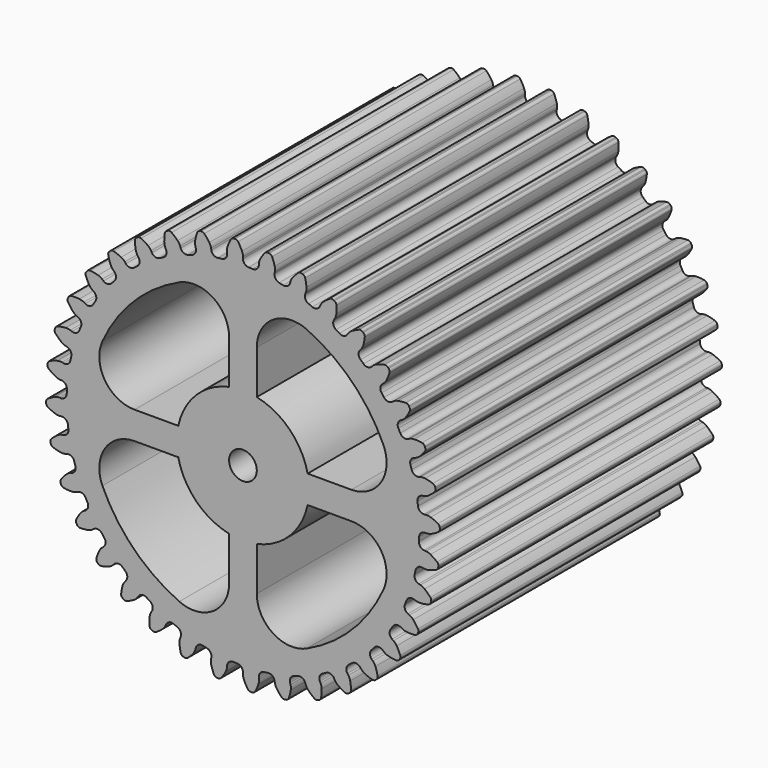
from build123d import *

# Parameters (mm, degrees)
F1_DEPTH = 50.8
F2_R     = 0.8382
F4_D     = 3.9878
F4_DEPTH = 50.8
F3_R     = 1.9939
F5_DEPTH = 50.8


with BuildPart() as f1:
    # F0 (on Front) → F1 (new body)
    with BuildSketch(Plane.XZ):
        with BuildLine():
            ThreePointArc((25.303345, -2.213756), (25.375825, -1.107932), (25.4, 0))
            ThreePointArc((25.4, 0), (25.375825, 1.107932), (25.303345, 2.213756))
            ThreePointArc((25.303345, 2.213756), (25.182699, 3.315365), (25.014117, 4.410664))
            ThreePointArc((25.014117, 4.410664), (24.797919, 5.497566), (24.534516, 6.574004))
            ThreePointArc((24.534516, 6.574004), (24.224411, 7.637927), (23.868193, 8.687312))
            ThreePointArc((23.868193, 8.687312), (23.46654, 9.720159), (23.020218, 10.734504))
            ThreePointArc((23.020218, 10.734504), (22.530075, 11.728415), (21.997045, 12.7))
            ThreePointArc((21.997045, 12.7), (21.422143, 13.64741), (20.806462, 14.568841))
            ThreePointArc((20.806462, 14.568841), (20.151175, 15.46254), (19.457529, 16.326805))
            ThreePointArc((19.457529, 16.326805), (18.726844, 17.159991), (17.960512, 17.960512))
            ThreePointArc((17.960512, 17.960512), (17.159991, 18.726844), (16.326805, 19.457529))
            ThreePointArc((16.326805, 19.457529), (15.46254, 20.151175), (14.568841, 20.806462))
            ThreePointArc((14.568841, 20.806462), (13.64741, 21.422143), (12.7, 21.997045))
            ThreePointArc((12.7, 21.997045), (11.728415, 22.530075), (10.734504, 23.020218))
            ThreePointArc((10.734504, 23.020218), (9.720159, 23.46654), (8.687312, 23.868193))
            ThreePointArc((8.687312, 23.868193), (7.637927, 24.224411), (6.574004, 24.534516))
            ThreePointArc((6.574004, 24.534516), (5.497566, 24.797919), (4.410664, 25.014117))
            ThreePointArc((4.410664, 25.014117), (3.315365, 25.182699), (2.213756, 25.303345))
            ThreePointArc((2.213756, 25.303345), (1.107932, 25.375825), (0, 25.4))
            ThreePointArc((0, 25.4), (-1.107932, 25.375825), (-2.213756, 25.303345))
            ThreePointArc((-2.213756, 25.303345), (-3.315365, 25.182699), (-4.410664, 25.014117))
            ThreePointArc((-4.410664, 25.014117), (-5.497566, 24.797919), (-6.574004, 24.534516))
            ThreePointArc((-6.574004, 24.534516), (-7.637927, 24.224411), (-8.687312, 23.868193))
            ThreePointArc((-8.687312, 23.868193), (-9.720159, 23.46654), (-10.734504, 23.020218))
            ThreePointArc((-10.734504, 23.020218), (-11.728415, 22.530075), (-12.7, 21.997045))
            ThreePointArc((-12.7, 21.997045), (-13.64741, 21.422143), (-14.568841, 20.806462))
            ThreePointArc((-14.568841, 20.806462), (-15.46254, 20.151175), (-16.326805, 19.457529))
            ThreePointArc((-16.326805, 19.457529), (-17.159991, 18.726844), (-17.960512, 17.960512))
            ThreePointArc((-17.960512, 17.960512), (-18.726844, 17.159991), (-19.457529, 16.326805))
            ThreePointArc((-19.457529, 16.326805), (-20.151175, 15.46254), (-20.806462, 14.568841))
            ThreePointArc((-20.806462, 14.568841), (-21.422143, 13.64741), (-21.997045, 12.7))
            ThreePointArc((-21.997045, 12.7), (-22.530075, 11.728415), (-23.020218, 10.734504))
            ThreePointArc((-23.020218, 10.734504), (-23.46654, 9.720159), (-23.868193, 8.687312))
            ThreePointArc((-23.868193, 8.687312), (-24.224411, 7.637927), (-24.534516, 6.574004))
            ThreePointArc((-24.534516, 6.574004), (-24.797919, 5.497566), (-25.014117, 4.410664))
            ThreePointArc((-25.014117, 4.410664), (-25.182699, 3.315365), (-25.303345, 2.213756))
            ThreePointArc((-25.303345, 2.213756), (-25.375825, 1.107932), (-25.4, 0))
            ThreePointArc((-25.4, 0), (-25.375825, -1.107932), (-25.303345, -2.213756))
            ThreePointArc((-25.303345, -2.213756), (-25.182699, -3.315365), (-25.014117, -4.410664))
            ThreePointArc((-25.014117, -4.410664), (-24.797919, -5.497566), (-24.534516, -6.574004))
            ThreePointArc((-24.534516, -6.574004), (-24.224411, -7.637927), (-23.868193, -8.687312))
            ThreePointArc((-23.868193, -8.687312), (-23.46654, -9.720159), (-23.020218, -10.734504))
            ThreePointArc((-23.020218, -10.734504), (-22.530075, -11.728415), (-21.997045, -12.7))
            ThreePointArc((-21.997045, -12.7), (-21.422143, -13.64741), (-20.806462, -14.568841))
            ThreePointArc((-20.806462, -14.568841), (-20.151175, -15.46254), (-19.457529, -16.326805))
            ThreePointArc((-19.457529, -16.326805), (-18.726844, -17.159991), (-17.960512, -17.960512))
            ThreePointArc((-17.960512, -17.960512), (-17.159991, -18.726844), (-16.326805, -19.457529))
            ThreePointArc((-16.326805, -19.457529), (-15.46254, -20.151175), (-14.568841, -20.806462))
            ThreePointArc((-14.568841, -20.806462), (-13.64741, -21.422143), (-12.7, -21.997045))
            ThreePointArc((-12.7, -21.997045), (-11.728415, -22.530075), (-10.734504, -23.020218))
            ThreePointArc((-10.734504, -23.020218), (-9.720159, -23.46654), (-8.687312, -23.868193))
            ThreePointArc((-8.687312, -23.868193), (-7.637927, -24.224411), (-6.574004, -24.534516))
            ThreePointArc((-6.574004, -24.534516), (-5.497566, -24.797919), (-4.410664, -25.014117))
            ThreePointArc((-4.410664, -25.014117), (-3.315365, -25.182699), (-2.213756, -25.303345))
            ThreePointArc((-2.213756, -25.303345), (-1.107932, -25.375825), (0, -25.4))
            ThreePointArc((0, -25.4), (1.107932, -25.375825), (2.213756, -25.303345))
            ThreePointArc((2.213756, -25.303345), (3.315365, -25.182699), (4.410664, -25.014117))
            ThreePointArc((4.410664, -25.014117), (5.497566, -24.797919), (6.574004, -24.534516))
            ThreePointArc((6.574004, -24.534516), (7.637927, -24.224411), (8.687312, -23.868193))
            ThreePointArc((8.687312, -23.868193), (9.720159, -23.46654), (10.734504, -23.020218))
            ThreePointArc((10.734504, -23.020218), (11.728415, -22.530075), (12.7, -21.997045))
            ThreePointArc((12.7, -21.997045), (13.64741, -21.422143), (14.568841, -20.806462))
            ThreePointArc((14.568841, -20.806462), (15.46254, -20.151175), (16.326805, -19.457529))
            ThreePointArc((16.326805, -19.457529), (17.159991, -18.726844), (17.960512, -17.960512))
            ThreePointArc((17.960512, -17.960512), (18.726844, -17.159991), (19.457529, -16.326805))
            ThreePointArc((19.457529, -16.326805), (20.151175, -15.46254), (20.806462, -14.568841))
            ThreePointArc((20.806462, -14.568841), (21.422143, -13.64741), (21.997045, -12.7))
            ThreePointArc((21.997045, -12.7), (22.530075, -11.728415), (23.020218, -10.734504))
            ThreePointArc((23.020218, -10.734504), (23.46654, -9.720159), (23.868193, -8.687312))
            ThreePointArc((23.868193, -8.687312), (24.224411, -7.637927), (24.534516, -6.574004))
            ThreePointArc((24.534516, -6.574004), (24.797919, -5.497566), (25.014117, -4.410664))
            ThreePointArc((25.014117, -4.410664), (25.182699, -3.315365), (25.303345, -2.213756))
        make_face()
        with BuildLine():
            ThreePointArc((25.303345, 2.213756), (25.375825, 1.107932), (25.4, 0))
            Line((25.4, 0), (26.478854, 0))
            ThreePointArc((26.478854, 0), (26.813675, 0.03542), (27.133674, 0.140114))
            ThreePointArc((27.133674, 0.140114), (27.648597, 0.398183), (28.13945, 0.699528))
            ThreePointArc((28.13945, 0.699528), (28.307437, 0.889026), (28.363069, 1.136077))
            Line((28.363069, 1.136077), (28.35996, 1.238223))
            Line((28.35996, 1.238223), (28.354154, 1.34025))
            ThreePointArc((28.354154, 1.34025), (28.277203, 1.581513), (28.093339, 1.755649))
            ThreePointArc((28.093339, 1.755649), (27.57809, 2.013067), (27.042633, 2.225275))
            ThreePointArc((27.042633, 2.225275), (26.714728, 2.30168), (26.378094, 2.307784))
            Line((26.378094, 2.307784), (25.303345, 2.213756))
        make_face()
        with BuildLine():
            Line((26.378094, -2.307784), (25.303345, -2.213756))
            ThreePointArc((25.303345, -2.213756), (25.182699, -3.315365), (25.014117, -4.410664))
            Line((25.014117, -4.410664), (26.076581, -4.598005))
            ThreePointArc((26.076581, -4.598005), (26.412466, -4.621263), (26.745783, -4.573728))
            ThreePointArc((26.745783, -4.573728), (27.297696, -4.408995), (27.83342, -4.197464))
            ThreePointArc((27.83342, -4.197464), (28.031761, -4.040015), (28.129448, -3.806378))
            Line((28.129448, -3.806378), (28.144124, -3.705244))
            Line((28.144124, -3.705244), (28.156123, -3.603758))
            ThreePointArc((28.156123, -3.603758), (28.122235, -3.352799), (27.971403, -3.14938))
            ThreePointArc((27.971403, -3.14938), (27.508682, -2.806401), (27.01821, -2.504436))
            ThreePointArc((27.01821, -2.504436), (26.708554, -2.372251), (26.378094, -2.307784))
        make_face()
        with BuildLine():
            ThreePointArc((24.534516, 6.574004), (24.797919, 5.497566), (25.014117, 4.410664))
            Line((25.014117, 4.410664), (26.076581, 4.598005))
            ThreePointArc((26.076581, 4.598005), (26.400164, 4.691028), (26.697122, 4.849698))
            ThreePointArc((26.697122, 4.849698), (27.159409, 5.193262), (27.590477, 5.575264))
            ThreePointArc((27.590477, 5.575264), (27.723006, 5.791054), (27.734892, 6.044013))
            Line((27.734892, 6.044013), (27.714094, 6.144067))
            Line((27.714094, 6.144067), (27.690659, 6.243536))
            ThreePointArc((27.690659, 6.243536), (27.572982, 6.467771), (27.361673, 6.607334))
            ThreePointArc((27.361673, 6.607334), (26.809551, 6.771369), (26.24538, 6.887372))
            ThreePointArc((26.24538, 6.887372), (25.909189, 6.905676), (25.576609, 6.853232))
            Line((25.576609, 6.853232), (24.534516, 6.574004))
        make_face()
        with BuildLine():
            Line((25.576609, -6.853232), (24.534516, -6.574004))
            ThreePointArc((24.534516, -6.574004), (24.224411, -7.637927), (23.868193, -8.687312))
            Line((23.868193, -8.687312), (24.881984, -9.056301))
            ThreePointArc((24.881984, -9.056301), (25.208727, -9.137533), (25.545235, -9.148599))
            ThreePointArc((25.545235, -9.148599), (26.117369, -9.082208), (26.681686, -8.966918))
            ThreePointArc((26.681686, -8.966918), (26.904355, -8.846303), (27.041128, -8.633177))
            Line((27.041128, -8.633177), (27.073143, -8.536129))
            Line((27.073143, -8.536129), (27.102582, -8.438269))
            ThreePointArc((27.102582, -8.438269), (27.112788, -8.185237), (26.999571, -7.958717))
            ThreePointArc((26.999571, -7.958717), (26.603437, -7.540598), (26.172852, -7.158051))
            ThreePointArc((26.172852, -7.158051), (25.890854, -6.974103), (25.576609, -6.853232))
        make_face()
        with BuildLine():
            ThreePointArc((23.020218, 10.734504), (23.46654, 9.720159), (23.868193, 8.687312))
            Line((23.868193, 8.687312), (24.881984, 9.056301))
            ThreePointArc((24.881984, 9.056301), (25.184498, 9.204101), (25.449391, 9.411927))
            ThreePointArc((25.449391, 9.411927), (25.844996, 9.830546), (26.203181, 10.2816))
            ThreePointArc((26.203181, 10.2816), (26.296225, 10.517125), (26.264005, 10.768304))
            Line((26.264005, 10.768304), (26.226149, 10.863226))
            Line((26.226149, 10.863226), (26.185797, 10.957115))
            ThreePointArc((26.185797, 10.957115), (26.030969, 11.157509), (25.798636, 11.258258))
            ThreePointArc((25.798636, 11.258258), (25.226418, 11.323926), (24.650674, 11.3402))
            ThreePointArc((24.650674, 11.3402), (24.316412, 11.299847), (23.997992, 11.190447))
            Line((23.997992, 11.190447), (23.020218, 10.734504))
        make_face()
        with BuildLine():
            Line((23.997992, -11.190447), (23.020218, -10.734504))
            ThreePointArc((23.020218, -10.734504), (22.530075, -11.728415), (21.997045, -12.7))
            Line((21.997045, -12.7), (22.93136, -13.239427))
            ThreePointArc((22.93136, -13.239427), (23.239034, -13.376163), (23.568507, -13.445495))
            ThreePointArc((23.568507, -13.445495), (24.143479, -13.479462), (24.719242, -13.463916))
            ThreePointArc((24.719242, -13.463916), (24.959473, -13.3838), (25.131177, -13.197663))
            Line((25.131177, -13.197663), (25.179558, -13.107648))
            Line((25.179558, -13.107648), (25.225543, -13.016386))
            ThreePointArc((25.225543, -13.016386), (25.279532, -12.768971), (25.20737, -12.526233))
            ThreePointArc((25.20737, -12.526233), (24.889859, -12.045678), (24.532245, -11.594172))
            ThreePointArc((24.532245, -11.594172), (24.286473, -11.364051), (23.997992, -11.190447))
        make_face()
        with BuildLine():
            ThreePointArc((20.806462, 14.568841), (21.422143, 13.64741), (21.997045, 12.7))
            Line((21.997045, 12.7), (22.93136, 13.239427))
            ThreePointArc((22.93136, 13.239427), (23.203614, 13.437513), (23.428394, 13.688179))
            ThreePointArc((23.428394, 13.688179), (23.745296, 14.169135), (24.019715, 14.675534))
            ThreePointArc((24.019715, 14.675534), (24.070447, 14.923638), (23.995099, 15.165406))
            Line((23.995099, 15.165406), (23.941335, 15.252312))
            Line((23.941335, 15.252312), (23.885293, 15.337768))
            ThreePointArc((23.885293, 15.337768), (23.698019, 15.508232), (23.451721, 15.567106))
            ThreePointArc((23.451721, 15.567106), (22.876793, 15.532412), (22.30697, 15.448461))
            ThreePointArc((22.30697, 15.448461), (21.984793, 15.350677), (21.690208, 15.187647))
            Line((21.690208, 15.187647), (20.806462, 14.568841))
        make_face()
        with BuildLine():
            Line((21.690208, -15.187647), (20.806462, -14.568841))
            ThreePointArc((20.806462, -14.568841), (20.151175, -15.46254), (19.457529, -16.326805))
            Line((19.457529, -16.326805), (20.283979, -17.020279))
            ThreePointArc((20.283979, -17.020279), (20.563235, -17.208364), (20.875663, -17.333856))
            ThreePointArc((20.875663, -17.333856), (21.436001, -17.46715), (22.005717, -17.551821))
            ThreePointArc((22.005717, -17.551821), (22.25621, -17.514637), (22.457627, -17.361143))
            Line((22.457627, -17.361143), (22.520904, -17.280898))
            Line((22.520904, -17.280898), (22.582038, -17.199008))
            ThreePointArc((22.582038, -17.199008), (22.678171, -16.964726), (22.649256, -16.713145))
            ThreePointArc((22.649256, -16.713145), (22.420017, -16.184756), (22.146238, -15.67801))
            ThreePointArc((22.146238, -15.67801), (21.94416, -15.408707), (21.690208, -15.187647))
        make_face()
        with BuildLine():
            ThreePointArc((17.960512, 17.960512), (18.726844, 17.159991), (19.457529, 16.326805))
            Line((19.457529, 16.326805), (20.283979, 17.020279))
            ThreePointArc((20.283979, 17.020279), (20.517699, 17.262632), (20.695536, 17.548523))
            ThreePointArc((20.695536, 17.548523), (20.924107, 18.077201), (21.106422, 18.623559))
            ThreePointArc((21.106422, 18.623559), (21.1133, 18.876703), (20.997115, 19.101715))
            Line((20.997115, 19.101715), (20.929076, 19.177965))
            Line((20.929076, 19.177965), (20.859046, 19.25239))
            ThreePointArc((20.859046, 19.25239), (20.645017, 19.387745), (20.392237, 19.402955))
            ThreePointArc((20.392237, 19.402955), (19.832068, 19.268953), (19.28548, 19.087329))
            ThreePointArc((19.28548, 19.087329), (18.985178, 18.935085), (18.723377, 18.723377))
            Line((18.723377, 18.723377), (17.960512, 17.960512))
        make_face()
        with BuildLine():
            Line((18.723377, -18.723377), (17.960512, -17.960512))
            ThreePointArc((17.960512, -17.960512), (17.159991, -18.726844), (16.326805, -19.457529))
            Line((16.326805, -19.457529), (17.020279, -20.283979))
            ThreePointArc((17.020279, -20.283979), (17.262632, -20.517699), (17.548523, -20.695536))
            ThreePointArc((17.548523, -20.695536), (18.077201, -20.924107), (18.623559, -21.106422))
            ThreePointArc((18.623559, -21.106422), (18.876703, -21.1133), (19.101715, -20.997115))
            Line((19.101715, -20.997115), (19.177965, -20.929076))
            Line((19.177965, -20.929076), (19.25239, -20.859046))
            ThreePointArc((19.25239, -20.859046), (19.387745, -20.645017), (19.402955, -20.392237))
            ThreePointArc((19.402955, -20.392237), (19.268953, -19.832068), (19.087329, -19.28548))
            ThreePointArc((19.087329, -19.28548), (18.935085, -18.985178), (18.723377, -18.723377))
        make_face()
        with BuildLine():
            ThreePointArc((14.568841, 20.806462), (15.46254, 20.151175), (16.326805, 19.457529))
            Line((16.326805, 19.457529), (17.020279, 20.283979))
            ThreePointArc((17.020279, 20.283979), (17.208364, 20.563235), (17.333856, 20.875663))
            ThreePointArc((17.333856, 20.875663), (17.46715, 21.436001), (17.551821, 22.005717))
            ThreePointArc((17.551821, 22.005717), (17.514637, 22.25621), (17.361143, 22.457627))
            Line((17.361143, 22.457627), (17.280898, 22.520904))
            Line((17.280898, 22.520904), (17.199008, 22.582038))
            ThreePointArc((17.199008, 22.582038), (16.964726, 22.678171), (16.713145, 22.649256))
            ThreePointArc((16.713145, 22.649256), (16.184756, 22.420017), (15.67801, 22.146238))
            ThreePointArc((15.67801, 22.146238), (15.408707, 21.94416), (15.187647, 21.690208))
            Line((15.187647, 21.690208), (14.568841, 20.806462))
        make_face()
        with BuildLine():
            Line((15.187647, -21.690208), (14.568841, -20.806462))
            ThreePointArc((14.568841, -20.806462), (13.64741, -21.422143), (12.7, -21.997045))
            Line((12.7, -21.997045), (13.239427, -22.93136))
            ThreePointArc((13.239427, -22.93136), (13.437513, -23.203614), (13.688179, -23.428394))
            ThreePointArc((13.688179, -23.428394), (14.169135, -23.745296), (14.675534, -24.019715))
            ThreePointArc((14.675534, -24.019715), (14.923638, -24.070447), (15.165406, -23.995099))
            Line((15.165406, -23.995099), (15.252312, -23.941335))
            Line((15.252312, -23.941335), (15.337768, -23.885293))
            ThreePointArc((15.337768, -23.885293), (15.508232, -23.698019), (15.567106, -23.451721))
            ThreePointArc((15.567106, -23.451721), (15.532412, -22.876793), (15.448461, -22.30697))
            ThreePointArc((15.448461, -22.30697), (15.350677, -21.984793), (15.187647, -21.690208))
        make_face()
        with BuildLine():
            ThreePointArc((10.734504, 23.020218), (11.728415, 22.530075), (12.7, 21.997045))
            Line((12.7, 21.997045), (13.239427, 22.93136))
            ThreePointArc((13.239427, 22.93136), (13.376163, 23.239034), (13.445495, 23.568507))
            ThreePointArc((13.445495, 23.568507), (13.479462, 24.143479), (13.463916, 24.719242))
            ThreePointArc((13.463916, 24.719242), (13.3838, 24.959473), (13.197663, 25.131177))
            Line((13.197663, 25.131177), (13.107648, 25.179558))
            Line((13.107648, 25.179558), (13.016386, 25.225543))
            ThreePointArc((13.016386, 25.225543), (12.768971, 25.279532), (12.526233, 25.20737))
            ThreePointArc((12.526233, 25.20737), (12.045678, 24.889859), (11.594172, 24.532245))
            ThreePointArc((11.594172, 24.532245), (11.364051, 24.286473), (11.190447, 23.997992))
            Line((11.190447, 23.997992), (10.734504, 23.020218))
        make_face()
        with BuildLine():
            Line((11.190447, -23.997992), (10.734504, -23.020218))
            ThreePointArc((10.734504, -23.020218), (9.720159, -23.46654), (8.687312, -23.868193))
            Line((8.687312, -23.868193), (9.056301, -24.881984))
            ThreePointArc((9.056301, -24.881984), (9.204101, -25.184498), (9.411927, -25.449391))
            ThreePointArc((9.411927, -25.449391), (9.830546, -25.844996), (10.2816, -26.203181))
            ThreePointArc((10.2816, -26.203181), (10.517125, -26.296225), (10.768304, -26.264005))
            Line((10.768304, -26.264005), (10.863226, -26.226149))
            Line((10.863226, -26.226149), (10.957115, -26.185797))
            ThreePointArc((10.957115, -26.185797), (11.157509, -26.030969), (11.258258, -25.798636))
            ThreePointArc((11.258258, -25.798636), (11.323926, -25.226418), (11.3402, -24.650674))
            ThreePointArc((11.3402, -24.650674), (11.299847, -24.316412), (11.190447, -23.997992))
        make_face()
        with BuildLine():
            ThreePointArc((6.574004, 24.534516), (7.637927, 24.224411), (8.687312, 23.868193))
            Line((8.687312, 23.868193), (9.056301, 24.881984))
            ThreePointArc((9.056301, 24.881984), (9.137533, 25.208727), (9.148599, 25.545235))
            ThreePointArc((9.148599, 25.545235), (9.082208, 26.117369), (8.966918, 26.681686))
            ThreePointArc((8.966918, 26.681686), (8.846303, 26.904355), (8.633177, 27.041128))
            Line((8.633177, 27.041128), (8.536129, 27.073143))
            Line((8.536129, 27.073143), (8.438269, 27.102582))
            ThreePointArc((8.438269, 27.102582), (8.185237, 27.112788), (7.958717, 26.999571))
            ThreePointArc((7.958717, 26.999571), (7.540598, 26.603437), (7.158051, 26.172852))
            ThreePointArc((7.158051, 26.172852), (6.974103, 25.890854), (6.853232, 25.576609))
            Line((6.853232, 25.576609), (6.574004, 24.534516))
        make_face()
        with BuildLine():
            Line((6.853232, -25.576609), (6.574004, -24.534516))
            ThreePointArc((6.574004, -24.534516), (5.497566, -24.797919), (4.410664, -25.014117))
            Line((4.410664, -25.014117), (4.598005, -26.076581))
            ThreePointArc((4.598005, -26.076581), (4.691028, -26.400164), (4.849698, -26.697122))
            ThreePointArc((4.849698, -26.697122), (5.193262, -27.159409), (5.575264, -27.590477))
            ThreePointArc((5.575264, -27.590477), (5.791054, -27.723006), (6.044013, -27.734892))
            Line((6.044013, -27.734892), (6.144067, -27.714094))
            Line((6.144067, -27.714094), (6.243536, -27.690659))
            ThreePointArc((6.243536, -27.690659), (6.467771, -27.572982), (6.607334, -27.361673))
            ThreePointArc((6.607334, -27.361673), (6.771369, -26.809551), (6.887372, -26.24538))
            ThreePointArc((6.887372, -26.24538), (6.905676, -25.909189), (6.853232, -25.576609))
        make_face()
        with BuildLine():
            ThreePointArc((2.213756, 25.303345), (3.315365, 25.182699), (4.410664, 25.014117))
            Line((4.410664, 25.014117), (4.598005, 26.076581))
            ThreePointArc((4.598005, 26.076581), (4.621263, 26.412466), (4.573728, 26.745783))
            ThreePointArc((4.573728, 26.745783), (4.408995, 27.297696), (4.197464, 27.83342))
            ThreePointArc((4.197464, 27.83342), (4.040015, 28.031761), (3.806378, 28.129448))
            Line((3.806378, 28.129448), (3.705244, 28.144124))
            Line((3.705244, 28.144124), (3.603758, 28.156123))
            ThreePointArc((3.603758, 28.156123), (3.352799, 28.122235), (3.14938, 27.971403))
            ThreePointArc((3.14938, 27.971403), (2.806401, 27.508682), (2.504436, 27.01821))
            ThreePointArc((2.504436, 27.01821), (2.372251, 26.708554), (2.307784, 26.378094))
            Line((2.307784, 26.378094), (2.213756, 25.303345))
        make_face()
        with BuildLine():
            Line((2.307784, -26.378094), (2.213756, -25.303345))
            ThreePointArc((2.213756, -25.303345), (1.107932, -25.375825), (0, -25.4))
            Line((0, -25.4), (0, -26.478854))
            ThreePointArc((0, -26.478854), (0.03542, -26.813675), (0.140114, -27.133674))
            ThreePointArc((0.140114, -27.133674), (0.398183, -27.648597), (0.699528, -28.13945))
            ThreePointArc((0.699528, -28.13945), (0.889026, -28.307437), (1.136077, -28.363069))
            Line((1.136077, -28.363069), (1.238223, -28.35996))
            Line((1.238223, -28.35996), (1.34025, -28.354154))
            ThreePointArc((1.34025, -28.354154), (1.581513, -28.277203), (1.755649, -28.093339))
            ThreePointArc((1.755649, -28.093339), (2.013067, -27.57809), (2.225275, -27.042633))
            ThreePointArc((2.225275, -27.042633), (2.30168, -26.714728), (2.307784, -26.378094))
        make_face()
        with BuildLine():
            ThreePointArc((-2.213756, 25.303345), (-1.107932, 25.375825), (0, 25.4))
            Line((0, 25.4), (0, 26.478854))
            ThreePointArc((0, 26.478854), (-0.03542, 26.813675), (-0.140114, 27.133674))
            ThreePointArc((-0.140114, 27.133674), (-0.398183, 27.648597), (-0.699528, 28.13945))
            ThreePointArc((-0.699528, 28.13945), (-0.889026, 28.307437), (-1.136077, 28.363069))
            Line((-1.136077, 28.363069), (-1.238223, 28.35996))
            Line((-1.238223, 28.35996), (-1.34025, 28.354154))
            ThreePointArc((-1.34025, 28.354154), (-1.581513, 28.277203), (-1.755649, 28.093339))
            ThreePointArc((-1.755649, 28.093339), (-2.013067, 27.57809), (-2.225275, 27.042633))
            ThreePointArc((-2.225275, 27.042633), (-2.30168, 26.714728), (-2.307784, 26.378094))
            Line((-2.307784, 26.378094), (-2.213756, 25.303345))
        make_face()
        with BuildLine():
            Line((-2.307784, -26.378094), (-2.213756, -25.303345))
            ThreePointArc((-2.213756, -25.303345), (-3.315365, -25.182699), (-4.410664, -25.014117))
            Line((-4.410664, -25.014117), (-4.598005, -26.076581))
            ThreePointArc((-4.598005, -26.076581), (-4.621263, -26.412466), (-4.573728, -26.745783))
            ThreePointArc((-4.573728, -26.745783), (-4.408995, -27.297696), (-4.197464, -27.83342))
            ThreePointArc((-4.197464, -27.83342), (-4.040015, -28.031761), (-3.806378, -28.129448))
            Line((-3.806378, -28.129448), (-3.705244, -28.144124))
            Line((-3.705244, -28.144124), (-3.603758, -28.156123))
            ThreePointArc((-3.603758, -28.156123), (-3.352799, -28.122235), (-3.14938, -27.971403))
            ThreePointArc((-3.14938, -27.971403), (-2.806401, -27.508682), (-2.504436, -27.01821))
            ThreePointArc((-2.504436, -27.01821), (-2.372251, -26.708554), (-2.307784, -26.378094))
        make_face()
        with BuildLine():
            ThreePointArc((-6.574004, 24.534516), (-5.497566, 24.797919), (-4.410664, 25.014117))
            Line((-4.410664, 25.014117), (-4.598005, 26.076581))
            ThreePointArc((-4.598005, 26.076581), (-4.691028, 26.400164), (-4.849698, 26.697122))
            ThreePointArc((-4.849698, 26.697122), (-5.193262, 27.159409), (-5.575264, 27.590477))
            ThreePointArc((-5.575264, 27.590477), (-5.791054, 27.723006), (-6.044013, 27.734892))
            Line((-6.044013, 27.734892), (-6.144067, 27.714094))
            Line((-6.144067, 27.714094), (-6.243536, 27.690659))
            ThreePointArc((-6.243536, 27.690659), (-6.467771, 27.572982), (-6.607334, 27.361673))
            ThreePointArc((-6.607334, 27.361673), (-6.771369, 26.809551), (-6.887372, 26.24538))
            ThreePointArc((-6.887372, 26.24538), (-6.905676, 25.909189), (-6.853232, 25.576609))
            Line((-6.853232, 25.576609), (-6.574004, 24.534516))
        make_face()
        with BuildLine():
            Line((-6.853232, -25.576609), (-6.574004, -24.534516))
            ThreePointArc((-6.574004, -24.534516), (-7.637927, -24.224411), (-8.687312, -23.868193))
            Line((-8.687312, -23.868193), (-9.056301, -24.881984))
            ThreePointArc((-9.056301, -24.881984), (-9.137533, -25.208727), (-9.148599, -25.545235))
            ThreePointArc((-9.148599, -25.545235), (-9.082208, -26.117369), (-8.966918, -26.681686))
            ThreePointArc((-8.966918, -26.681686), (-8.846303, -26.904355), (-8.633177, -27.041128))
            Line((-8.633177, -27.041128), (-8.536129, -27.073143))
            Line((-8.536129, -27.073143), (-8.438269, -27.102582))
            ThreePointArc((-8.438269, -27.102582), (-8.185237, -27.112788), (-7.958717, -26.999571))
            ThreePointArc((-7.958717, -26.999571), (-7.540598, -26.603437), (-7.158051, -26.172852))
            ThreePointArc((-7.158051, -26.172852), (-6.974103, -25.890854), (-6.853232, -25.576609))
        make_face()
        with BuildLine():
            ThreePointArc((-10.734504, 23.020218), (-9.720159, 23.46654), (-8.687312, 23.868193))
            Line((-8.687312, 23.868193), (-9.056301, 24.881984))
            ThreePointArc((-9.056301, 24.881984), (-9.204101, 25.184498), (-9.411927, 25.449391))
            ThreePointArc((-9.411927, 25.449391), (-9.830546, 25.844996), (-10.2816, 26.203181))
            ThreePointArc((-10.2816, 26.203181), (-10.517125, 26.296225), (-10.768304, 26.264005))
            Line((-10.768304, 26.264005), (-10.863226, 26.226149))
            Line((-10.863226, 26.226149), (-10.957115, 26.185797))
            ThreePointArc((-10.957115, 26.185797), (-11.157509, 26.030969), (-11.258258, 25.798636))
            ThreePointArc((-11.258258, 25.798636), (-11.323926, 25.226418), (-11.3402, 24.650674))
            ThreePointArc((-11.3402, 24.650674), (-11.299847, 24.316412), (-11.190447, 23.997992))
            Line((-11.190447, 23.997992), (-10.734504, 23.020218))
        make_face()
        with BuildLine():
            Line((-11.190447, -23.997992), (-10.734504, -23.020218))
            ThreePointArc((-10.734504, -23.020218), (-11.728415, -22.530075), (-12.7, -21.997045))
            Line((-12.7, -21.997045), (-13.239427, -22.93136))
            ThreePointArc((-13.239427, -22.93136), (-13.376163, -23.239034), (-13.445495, -23.568507))
            ThreePointArc((-13.445495, -23.568507), (-13.479462, -24.143479), (-13.463916, -24.719242))
            ThreePointArc((-13.463916, -24.719242), (-13.3838, -24.959473), (-13.197663, -25.131177))
            Line((-13.197663, -25.131177), (-13.107648, -25.179558))
            Line((-13.107648, -25.179558), (-13.016386, -25.225543))
            ThreePointArc((-13.016386, -25.225543), (-12.768971, -25.279532), (-12.526233, -25.20737))
            ThreePointArc((-12.526233, -25.20737), (-12.045678, -24.889859), (-11.594172, -24.532245))
            ThreePointArc((-11.594172, -24.532245), (-11.364051, -24.286473), (-11.190447, -23.997992))
        make_face()
        with BuildLine():
            ThreePointArc((-14.568841, 20.806462), (-13.64741, 21.422143), (-12.7, 21.997045))
            Line((-12.7, 21.997045), (-13.239427, 22.93136))
            ThreePointArc((-13.239427, 22.93136), (-13.437513, 23.203614), (-13.688179, 23.428394))
            ThreePointArc((-13.688179, 23.428394), (-14.169135, 23.745296), (-14.675534, 24.019715))
            ThreePointArc((-14.675534, 24.019715), (-14.923638, 24.070447), (-15.165406, 23.995099))
            Line((-15.165406, 23.995099), (-15.252312, 23.941335))
            Line((-15.252312, 23.941335), (-15.337768, 23.885293))
            ThreePointArc((-15.337768, 23.885293), (-15.508232, 23.698019), (-15.567106, 23.451721))
            ThreePointArc((-15.567106, 23.451721), (-15.532412, 22.876793), (-15.448461, 22.30697))
            ThreePointArc((-15.448461, 22.30697), (-15.350677, 21.984793), (-15.187647, 21.690208))
            Line((-15.187647, 21.690208), (-14.568841, 20.806462))
        make_face()
        with BuildLine():
            Line((-15.187647, -21.690208), (-14.568841, -20.806462))
            ThreePointArc((-14.568841, -20.806462), (-15.46254, -20.151175), (-16.326805, -19.457529))
            Line((-16.326805, -19.457529), (-17.020279, -20.283979))
            ThreePointArc((-17.020279, -20.283979), (-17.208364, -20.563235), (-17.333856, -20.875663))
            ThreePointArc((-17.333856, -20.875663), (-17.46715, -21.436001), (-17.551821, -22.005717))
            ThreePointArc((-17.551821, -22.005717), (-17.514637, -22.25621), (-17.361143, -22.457627))
            Line((-17.361143, -22.457627), (-17.280898, -22.520904))
            Line((-17.280898, -22.520904), (-17.199008, -22.582038))
            ThreePointArc((-17.199008, -22.582038), (-16.964726, -22.678171), (-16.713145, -22.649256))
            ThreePointArc((-16.713145, -22.649256), (-16.184756, -22.420017), (-15.67801, -22.146238))
            ThreePointArc((-15.67801, -22.146238), (-15.408707, -21.94416), (-15.187647, -21.690208))
        make_face()
        with BuildLine():
            ThreePointArc((-17.960512, 17.960512), (-17.159991, 18.726844), (-16.326805, 19.457529))
            Line((-16.326805, 19.457529), (-17.020279, 20.283979))
            ThreePointArc((-17.020279, 20.283979), (-17.262632, 20.517699), (-17.548523, 20.695536))
            ThreePointArc((-17.548523, 20.695536), (-18.077201, 20.924107), (-18.623559, 21.106422))
            ThreePointArc((-18.623559, 21.106422), (-18.876703, 21.1133), (-19.101715, 20.997115))
            Line((-19.101715, 20.997115), (-19.177965, 20.929076))
            Line((-19.177965, 20.929076), (-19.25239, 20.859046))
            ThreePointArc((-19.25239, 20.859046), (-19.387745, 20.645017), (-19.402955, 20.392237))
            ThreePointArc((-19.402955, 20.392237), (-19.268953, 19.832068), (-19.087329, 19.28548))
            ThreePointArc((-19.087329, 19.28548), (-18.935085, 18.985178), (-18.723377, 18.723377))
            Line((-18.723377, 18.723377), (-17.960512, 17.960512))
        make_face()
        with BuildLine():
            Line((-18.723377, -18.723377), (-17.960512, -17.960512))
            ThreePointArc((-17.960512, -17.960512), (-18.726844, -17.159991), (-19.457529, -16.326805))
            Line((-19.457529, -16.326805), (-20.283979, -17.020279))
            ThreePointArc((-20.283979, -17.020279), (-20.517699, -17.262632), (-20.695536, -17.548523))
            ThreePointArc((-20.695536, -17.548523), (-20.924107, -18.077201), (-21.106422, -18.623559))
            ThreePointArc((-21.106422, -18.623559), (-21.1133, -18.876703), (-20.997115, -19.101715))
            Line((-20.997115, -19.101715), (-20.929076, -19.177965))
            Line((-20.929076, -19.177965), (-20.859046, -19.25239))
            ThreePointArc((-20.859046, -19.25239), (-20.645017, -19.387745), (-20.392237, -19.402955))
            ThreePointArc((-20.392237, -19.402955), (-19.832068, -19.268953), (-19.28548, -19.087329))
            ThreePointArc((-19.28548, -19.087329), (-18.985178, -18.935085), (-18.723377, -18.723377))
        make_face()
        with BuildLine():
            ThreePointArc((-20.806462, 14.568841), (-20.151175, 15.46254), (-19.457529, 16.326805))
            Line((-19.457529, 16.326805), (-20.283979, 17.020279))
            ThreePointArc((-20.283979, 17.020279), (-20.563235, 17.208364), (-20.875663, 17.333856))
            ThreePointArc((-20.875663, 17.333856), (-21.436001, 17.46715), (-22.005717, 17.551821))
            ThreePointArc((-22.005717, 17.551821), (-22.25621, 17.514637), (-22.457627, 17.361143))
            Line((-22.457627, 17.361143), (-22.520904, 17.280898))
            Line((-22.520904, 17.280898), (-22.582038, 17.199008))
            ThreePointArc((-22.582038, 17.199008), (-22.678171, 16.964726), (-22.649256, 16.713145))
            ThreePointArc((-22.649256, 16.713145), (-22.420017, 16.184756), (-22.146238, 15.67801))
            ThreePointArc((-22.146238, 15.67801), (-21.94416, 15.408707), (-21.690208, 15.187647))
            Line((-21.690208, 15.187647), (-20.806462, 14.568841))
        make_face()
        with BuildLine():
            Line((-21.690208, -15.187647), (-20.806462, -14.568841))
            ThreePointArc((-20.806462, -14.568841), (-21.422143, -13.64741), (-21.997045, -12.7))
            Line((-21.997045, -12.7), (-22.93136, -13.239427))
            ThreePointArc((-22.93136, -13.239427), (-23.203614, -13.437513), (-23.428394, -13.688179))
            ThreePointArc((-23.428394, -13.688179), (-23.745296, -14.169135), (-24.019715, -14.675534))
            ThreePointArc((-24.019715, -14.675534), (-24.070447, -14.923638), (-23.995099, -15.165406))
            Line((-23.995099, -15.165406), (-23.941335, -15.252312))
            Line((-23.941335, -15.252312), (-23.885293, -15.337768))
            ThreePointArc((-23.885293, -15.337768), (-23.698019, -15.508232), (-23.451721, -15.567106))
            ThreePointArc((-23.451721, -15.567106), (-22.876793, -15.532412), (-22.30697, -15.448461))
            ThreePointArc((-22.30697, -15.448461), (-21.984793, -15.350677), (-21.690208, -15.187647))
        make_face()
        with BuildLine():
            ThreePointArc((-23.020218, 10.734504), (-22.530075, 11.728415), (-21.997045, 12.7))
            Line((-21.997045, 12.7), (-22.93136, 13.239427))
            ThreePointArc((-22.93136, 13.239427), (-23.239034, 13.376163), (-23.568507, 13.445495))
            ThreePointArc((-23.568507, 13.445495), (-24.143479, 13.479462), (-24.719242, 13.463916))
            ThreePointArc((-24.719242, 13.463916), (-24.959473, 13.3838), (-25.131177, 13.197663))
            Line((-25.131177, 13.197663), (-25.179558, 13.107648))
            Line((-25.179558, 13.107648), (-25.225543, 13.016386))
            ThreePointArc((-25.225543, 13.016386), (-25.279532, 12.768971), (-25.20737, 12.526233))
            ThreePointArc((-25.20737, 12.526233), (-24.889859, 12.045678), (-24.532245, 11.594172))
            ThreePointArc((-24.532245, 11.594172), (-24.286473, 11.364051), (-23.997992, 11.190447))
            Line((-23.997992, 11.190447), (-23.020218, 10.734504))
        make_face()
        with BuildLine():
            Line((-23.997992, -11.190447), (-23.020218, -10.734504))
            ThreePointArc((-23.020218, -10.734504), (-23.46654, -9.720159), (-23.868193, -8.687312))
            Line((-23.868193, -8.687312), (-24.881984, -9.056301))
            ThreePointArc((-24.881984, -9.056301), (-25.184498, -9.204101), (-25.449391, -9.411927))
            ThreePointArc((-25.449391, -9.411927), (-25.844996, -9.830546), (-26.203181, -10.2816))
            ThreePointArc((-26.203181, -10.2816), (-26.296225, -10.517125), (-26.264005, -10.768304))
            Line((-26.264005, -10.768304), (-26.226149, -10.863226))
            Line((-26.226149, -10.863226), (-26.185797, -10.957115))
            ThreePointArc((-26.185797, -10.957115), (-26.030969, -11.157509), (-25.798636, -11.258258))
            ThreePointArc((-25.798636, -11.258258), (-25.226418, -11.323926), (-24.650674, -11.3402))
            ThreePointArc((-24.650674, -11.3402), (-24.316412, -11.299847), (-23.997992, -11.190447))
        make_face()
        with BuildLine():
            ThreePointArc((-24.534516, 6.574004), (-24.224411, 7.637927), (-23.868193, 8.687312))
            Line((-23.868193, 8.687312), (-24.881984, 9.056301))
            ThreePointArc((-24.881984, 9.056301), (-25.208727, 9.137533), (-25.545235, 9.148599))
            ThreePointArc((-25.545235, 9.148599), (-26.117369, 9.082208), (-26.681686, 8.966918))
            ThreePointArc((-26.681686, 8.966918), (-26.904355, 8.846303), (-27.041128, 8.633177))
            Line((-27.041128, 8.633177), (-27.073143, 8.536129))
            Line((-27.073143, 8.536129), (-27.102582, 8.438269))
            ThreePointArc((-27.102582, 8.438269), (-27.112788, 8.185237), (-26.999571, 7.958717))
            ThreePointArc((-26.999571, 7.958717), (-26.603437, 7.540598), (-26.172852, 7.158051))
            ThreePointArc((-26.172852, 7.158051), (-25.890854, 6.974103), (-25.576609, 6.853232))
            Line((-25.576609, 6.853232), (-24.534516, 6.574004))
        make_face()
        with BuildLine():
            Line((-25.576609, -6.853232), (-24.534516, -6.574004))
            ThreePointArc((-24.534516, -6.574004), (-24.797919, -5.497566), (-25.014117, -4.410664))
            Line((-25.014117, -4.410664), (-26.076581, -4.598005))
            ThreePointArc((-26.076581, -4.598005), (-26.400164, -4.691028), (-26.697122, -4.849698))
            ThreePointArc((-26.697122, -4.849698), (-27.159409, -5.193262), (-27.590477, -5.575264))
            ThreePointArc((-27.590477, -5.575264), (-27.723006, -5.791054), (-27.734892, -6.044013))
            Line((-27.734892, -6.044013), (-27.714094, -6.144067))
            Line((-27.714094, -6.144067), (-27.690659, -6.243536))
            ThreePointArc((-27.690659, -6.243536), (-27.572982, -6.467771), (-27.361673, -6.607334))
            ThreePointArc((-27.361673, -6.607334), (-26.809551, -6.771369), (-26.24538, -6.887372))
            ThreePointArc((-26.24538, -6.887372), (-25.909189, -6.905676), (-25.576609, -6.853232))
        make_face()
        with BuildLine():
            ThreePointArc((-25.303345, 2.213756), (-25.182699, 3.315365), (-25.014117, 4.410664))
            Line((-25.014117, 4.410664), (-26.076581, 4.598005))
            ThreePointArc((-26.076581, 4.598005), (-26.412466, 4.621263), (-26.745783, 4.573728))
            ThreePointArc((-26.745783, 4.573728), (-27.297696, 4.408995), (-27.83342, 4.197464))
            ThreePointArc((-27.83342, 4.197464), (-28.031761, 4.040015), (-28.129448, 3.806378))
            Line((-28.129448, 3.806378), (-28.144124, 3.705244))
            Line((-28.144124, 3.705244), (-28.156123, 3.603758))
            ThreePointArc((-28.156123, 3.603758), (-28.122235, 3.352799), (-27.971403, 3.14938))
            ThreePointArc((-27.971403, 3.14938), (-27.508682, 2.806401), (-27.01821, 2.504436))
            ThreePointArc((-27.01821, 2.504436), (-26.708554, 2.372251), (-26.378094, 2.307784))
            Line((-26.378094, 2.307784), (-25.303345, 2.213756))
        make_face()
        with BuildLine():
            Line((-26.378094, -2.307784), (-25.303345, -2.213756))
            ThreePointArc((-25.303345, -2.213756), (-25.375825, -1.107932), (-25.4, 0))
            Line((-25.4, 0), (-26.478854, 0))
            ThreePointArc((-26.478854, 0), (-26.813675, -0.03542), (-27.133674, -0.140114))
            ThreePointArc((-27.133674, -0.140114), (-27.648597, -0.398183), (-28.13945, -0.699528))
            ThreePointArc((-28.13945, -0.699528), (-28.307437, -0.889026), (-28.363069, -1.136077))
            Line((-28.363069, -1.136077), (-28.35996, -1.238223))
            Line((-28.35996, -1.238223), (-28.354154, -1.34025))
            ThreePointArc((-28.354154, -1.34025), (-28.277203, -1.581513), (-28.093339, -1.755649))
            ThreePointArc((-28.093339, -1.755649), (-27.57809, -2.013067), (-27.042633, -2.225275))
            ThreePointArc((-27.042633, -2.225275), (-26.714728, -2.30168), (-26.378094, -2.307784))
        make_face()
    extrude(amount=F1_DEPTH)

    # F2
    f2_edges = [f1.edges().sort_by_distance(p)[0] for p in [
        (-8.687312, -25.4, 23.868193),
        (-4.410664, -25.4, 25.014117),
        (-12.7, -25.4, 21.997045),
        (-16.326805, -25.4, 19.457529),
        (-19.457529, -25.4, 16.326805),
        (-21.997045, -25.4, 12.7),
        (-23.868193, -25.4, 8.687312),
        (-25.014117, -25.4, 4.410664),
        (-25.4, -25.4, 0),
        (-25.014117, -25.4, -4.410664),
        (0, -25.4, 25.4),
        (4.410664, -25.4, 25.014117),
        (8.687312, -25.4, 23.868193),
        (12.7, -25.4, 21.997045),
        (16.326805, -25.4, 19.457529),
        (19.457529, -25.4, 16.326805),
        (21.997045, -25.4, 12.7),
        (23.868193, -25.4, 8.687312),
        (25.014117, -25.4, 4.410664),
        (25.4, -25.4, 0),
        (25.014117, -25.4, -4.410664),
        (23.868193, -25.4, -8.687312),
        (21.997045, -25.4, -12.7),
        (19.457529, -25.4, -16.326805),
        (16.326805, -25.4, -19.457529),
        (12.7, -25.4, -21.997045),
        (8.687312, -25.4, -23.868193),
        (4.410664, -25.4, -25.014117),
        (0, -25.4, -25.4),
        (-4.410664, -25.4, -25.014117),
        (-8.687312, -25.4, -23.868193),
        (-12.7, -25.4, -21.997045),
        (-16.326805, -25.4, -19.457529),
        (-19.457529, -25.4, -16.326805),
        (-21.997045, -25.4, -12.7),
        (-23.868193, -25.4, -8.687312),
        (-25.303345, -25.4, -2.213756),
        (-24.534516, -25.4, -6.574004),
        (-23.020218, -25.4, -10.734504),
        (-20.806462, -25.4, -14.568841),
        (-17.960512, -25.4, -17.960512),
        (-14.568841, -25.4, -20.806462),
        (-10.734504, -25.4, -23.020218),
        (-6.574004, -25.4, -24.534516),
        (-2.213756, -25.4, -25.303345),
        (2.213756, -25.4, -25.303345),
        (6.574004, -25.4, -24.534516),
        (10.734504, -25.4, -23.020218),
        (14.568841, -25.4, -20.806462),
        (17.960512, -25.4, -17.960512),
        (20.806462, -25.4, -14.568841),
        (23.020218, -25.4, -10.734504),
        (24.534516, -25.4, -6.574004),
        (25.303345, -25.4, -2.213756),
        (25.303345, -25.4, 2.213756),
        (24.534516, -25.4, 6.574004),
        (23.020218, -25.4, 10.734504),
        (20.806462, -25.4, 14.568841),
        (17.960512, -25.4, 17.960512),
        (14.568841, -25.4, 20.806462),
        (10.734504, -25.4, 23.020218),
        (6.574004, -25.4, 24.534516),
        (2.213756, -25.4, 25.303345),
        (-2.213756, -25.4, 25.303345),
        (-6.574004, -25.4, 24.534516),
        (-10.734504, -25.4, 23.020218),
        (-14.568841, -25.4, 20.806462),
        (-17.960512, -25.4, 17.960512),
        (-20.806462, -25.4, 14.568841),
        (-23.020218, -25.4, 10.734504),
        (-24.534516, -25.4, 6.574004),
        (-25.303345, -25.4, 2.213756),
    ]]
    fillet(f2_edges, radius=F2_R)

    # F4
    with Locations(Plane.XZ.offset(50.8)):
        with Locations((0, 0)):
            Hole(F4_D / 2, depth=F4_DEPTH)

    # F3 (on face) → F5 (cut)
    with BuildSketch(Plane.XZ.offset(50.8)):
        Circle(F3_R)
        with BuildLine():
            ThreePointArc((-1.9939, -9.313967), (-6.735192, -6.735192), (-9.313967, -1.9939))
            Line((-9.313967, -1.9939), (-15.617649, -1.9939))
            ThreePointArc((-15.617649, -1.9939), (-19.886954, -4.320823), (-20.245101, -9.16987))
            ThreePointArc((-20.245101, -9.16987), (-15.715448, -15.715448), (-9.16987, -20.245101))
            ThreePointArc((-9.16987, -20.245101), (-4.320823, -19.886954), (-1.9939, -15.617649))
            Line((-1.9939, -15.617649), (-1.9939, -9.313967))
        make_face()
        with BuildLine():
            Line((15.617649, -1.9939), (9.313967, -1.9939))
            ThreePointArc((9.313967, -1.9939), (6.735192, -6.735192), (1.9939, -9.313967))
            Line((1.9939, -9.313967), (1.9939, -15.617649))
            ThreePointArc((1.9939, -15.617649), (4.320823, -19.886954), (9.16987, -20.245101))
            ThreePointArc((9.16987, -20.245101), (15.715448, -15.715448), (20.245101, -9.16987))
            ThreePointArc((20.245101, -9.16987), (19.886954, -4.320823), (15.617649, -1.9939))
        make_face()
        with BuildLine():
            Line((-15.617649, 1.9939), (-9.313967, 1.9939))
            ThreePointArc((-9.313967, 1.9939), (-6.735192, 6.735192), (-1.9939, 9.313967))
            Line((-1.9939, 9.313967), (-1.9939, 15.617649))
            ThreePointArc((-1.9939, 15.617649), (-4.320823, 19.886954), (-9.16987, 20.245101))
            ThreePointArc((-9.16987, 20.245101), (-15.715448, 15.715448), (-20.245101, 9.16987))
            ThreePointArc((-20.245101, 9.16987), (-19.886954, 4.320823), (-15.617649, 1.9939))
        make_face()
        with BuildLine():
            ThreePointArc((1.9939, 9.313967), (6.735192, 6.735192), (9.313967, 1.9939))
            Line((9.313967, 1.9939), (15.617649, 1.9939))
            ThreePointArc((15.617649, 1.9939), (19.886954, 4.320823), (20.245101, 9.16987))
            ThreePointArc((20.245101, 9.16987), (15.715448, 15.715448), (9.16987, 20.245101))
            ThreePointArc((9.16987, 20.245101), (4.320823, 19.886954), (1.9939, 15.617649))
            Line((1.9939, 15.617649), (1.9939, 9.313967))
        make_face()
    extrude(amount=-F5_DEPTH, mode=Mode.SUBTRACT)


solid = f1.part
